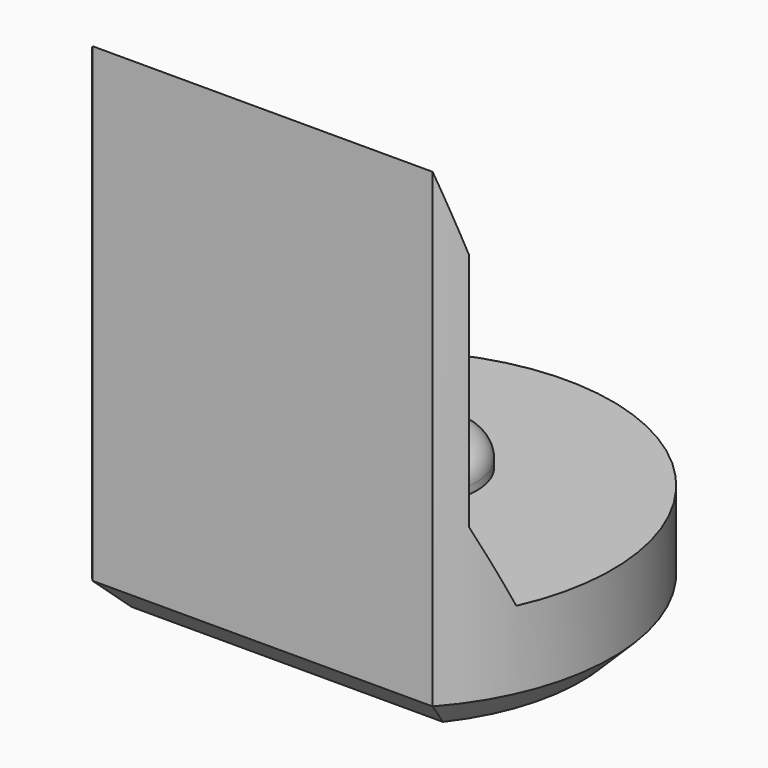
from build123d import *

# Parameters (mm, degrees)
PAD008_DEPTH         = 6.5
POCKET007_DEPTH      = 2.951
POCKET007_DEPTH_BACK = 2.951
SKETCH023_R          = 0.8
PAD009_DEPTH         = 0.4
FILLET001_R          = 0.3
CHAMFER007_SIZE      = 0.4


with BuildPart() as part:
    # Sketch022 → Pad008 (new body)
    with BuildSketch(Plane.XY):
        with BuildLine():
            ThreePointArc((2.2, -1.9653244007), (0, 2.95), (-2.2, -1.9653244007))
            Line((-2.2, -1.9653244007), (2.2, -1.9653244007))
        make_face()
    extrude(amount=PAD008_DEPTH)

    # Sketch024 → Pocket007 (cut, two sides)
    with BuildSketch(Plane.YZ) as pocket007_sk:
        Polygon((-1.97, 6.5), (-1.67, 5.5), (-1.67, 2.4), (-1.22, 1.4), (4, 1.4), (4, 6.5), align=None)
    extrude(amount=-POCKET007_DEPTH, mode=Mode.SUBTRACT)
    extrude(pocket007_sk.sketch, amount=POCKET007_DEPTH_BACK, mode=Mode.SUBTRACT)

    # Sketch023 (on Face7 of Pocket007) → Pad009 (join)
    with BuildSketch(Plane.XY.offset(1.4)):
        with Locations((0, 0.5)):
            Circle(SKETCH023_R)
    extrude(amount=PAD009_DEPTH)

    # Fillet001
    fillet001_edges = [part.edges().sort_by_distance(p)[0] for p in [
        (-0.8, 0.5, 1.8),
    ]]
    fillet(fillet001_edges, radius=FILLET001_R)

    # Chamfer007
    chamfer007_edges = [part.edges().sort_by_distance(p)[0] for p in [
        (0, 2.95, 0),
        (0, -1.965324, 0),
    ]]
    chamfer(chamfer007_edges, length=CHAMFER007_SIZE)


with BuildPart() as part_1:
    # Body081 placement: moved
    add(part.part.moved(Location((0, 6, 0))))


solid = part_1.part
